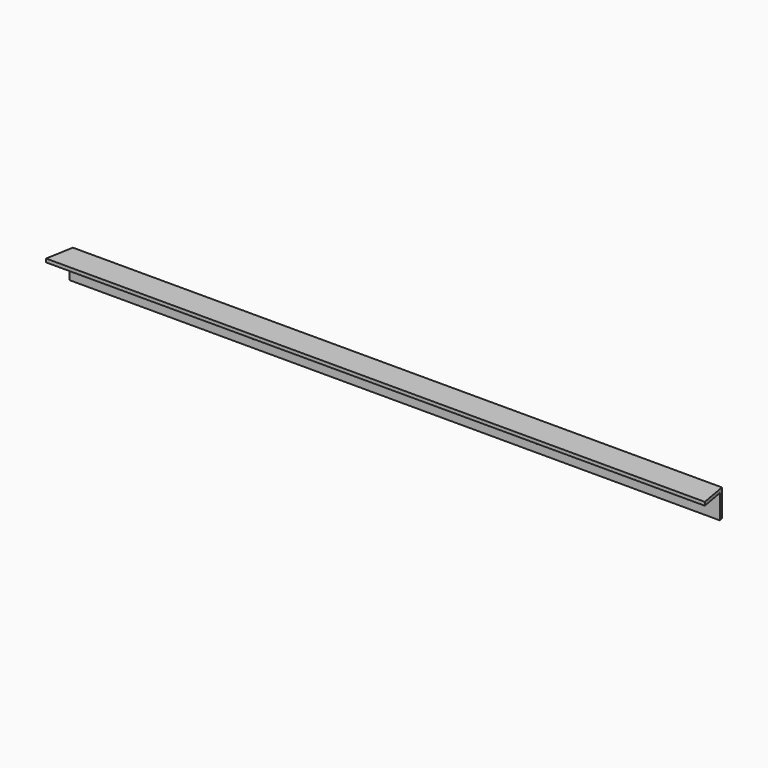
from build123d import *

# Parameters (mm, degrees)
F0_W     = 914.4
F0_H     = 38.1
F0_R     = 5.1562
F1_DEPTH = 4.7625
F2_W     = 914.4
F2_H     = 4.7625
F3_DEPTH = 33.3375
F5_DEPTH = 38.1


with BuildPart() as f1:
    # F0 (on Front) → F1 (new body)
    with BuildSketch(Plane.XZ):
        Rectangle(F0_W, F0_H)
        with Locations((-196.85, -3.175)):
            Circle(F0_R, mode=Mode.SUBTRACT)
        with Locations((196.85, -3.175)):
            Circle(F0_R, mode=Mode.SUBTRACT)
    extrude(amount=F1_DEPTH)

    # F2 (on face) → F3 (join)
    with BuildSketch(Plane.XZ.offset(4.7625)):
        with Locations((0, 16.66875)):
            Rectangle(F2_W, F2_H)
    extrude(amount=F3_DEPTH)

    # F4 (on face) → F5 (cut)
    with BuildSketch(Plane.XY.offset(19.05)):
        Polygon((450.481942, 0), (457.2, -38.1), (457.2, 0), align=None)
        Polygon((-457.2, 0), (-457.2, -38.1), (-450.481942, 0), align=None)
    extrude(amount=-F5_DEPTH, mode=Mode.SUBTRACT)


solid = f1.part
